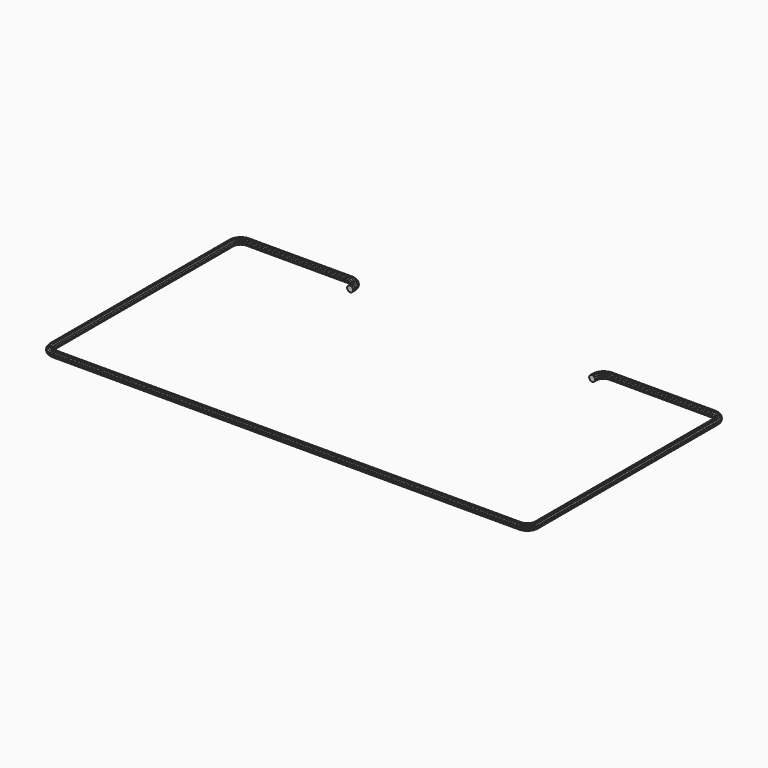
from build123d import *


with BuildPart() as f2:
    # F2: sweep along a path in F0
    with BuildLine(Plane.XY) as f2_path:
        Line((0, 0), (-97.79, 0))
        ThreePointArc((-97.79, 0), (-100.4840768363, 1.1159231637), (-101.6, 3.81))
        Line((-101.6, 3.81), (-101.6, 97.79))
        ThreePointArc((-101.6, 97.79), (-100.4840768363, 100.4840768363), (-97.79, 101.6))
        Line((-97.79, 101.6), (-54.61, 101.6))
        ThreePointArc((-54.61, 101.6), (-51.9159231637, 100.4840768363), (-50.8, 97.79))
        Line((-50.8, 97.79), (-50.8, 96.52))
    # F1 (on Right) → F2 (sweep)
    with BuildSketch(Plane.YZ):
        Polygon((0.7180774052, -1.0475041003), (1.145625325, -0.5481264588), (1.266203864, 0.0981212247), (1.0475041003, 0.7180774052), (0.5481264588, 1.145625325), (-0.0981212247, 1.266203864), (-0.7180774052, 1.0475041003), (-1.145625325, 0.5481264588), (-1.266203864, -0.0981212247), (-1.0475041003, -0.7180774052), (-0.5481264588, -1.145625325), (0.0981212247, -1.266203864), align=None)
    sweep(path=f2_path.line)

    # F3: F2 across plane


with BuildPart() as f2_1:
    add(f2.part)
    add(f2.part.mirror(Plane.YZ))


solid = f2_1.part
